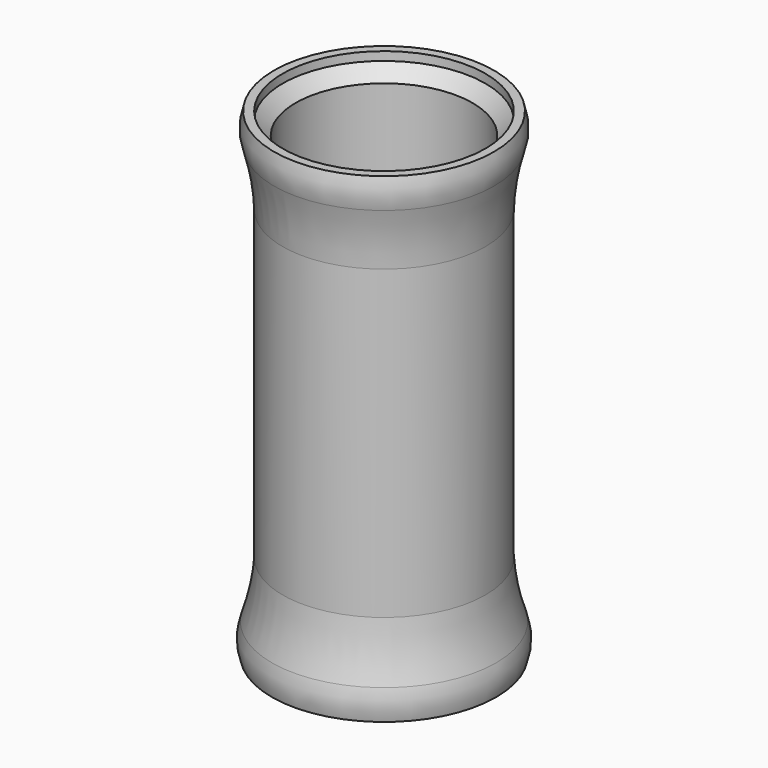
from build123d import *


with BuildPart() as f1:
    # F0 (on Front) → F1 (revolve)
    with BuildSketch(Plane.XZ):
        with BuildLine():
            Line((0, 49.5), (0, 0))
            Line((0, 0), (0, -47.5))
            Line((0, -47.5), (3.5, -52.52894))
            Line((3.5, -52.52894), (3.5, -56.52894))
            Line((3.5, -56.52894), (5.5, -56.52894))
            ThreePointArc((5.5, -56.52894), (6.132503, -53.02894), (5.5, -49.52894))
            ThreePointArc((5.5, -49.52894), (3.817857, -43.112045), (3, -36.52894))
            Line((3, -36.52894), (3, 0))
            Line((3, 0), (3, 34.5))
            ThreePointArc((3, 34.5), (3.570664, 41.066052), (5, 47.5))
            ThreePointArc((5, 47.5), (5.632503, 51), (5, 54.5))
            Line((5, 54.5), (3, 54.5))
            Line((3, 54.5), (3, 52.5))
            Line((3, 52.5), (0, 49.5))
        make_face()
    revolve(axis=Axis((-20.5, 0, 1.066906), (0, 0, -1)))


solid = f1.part
